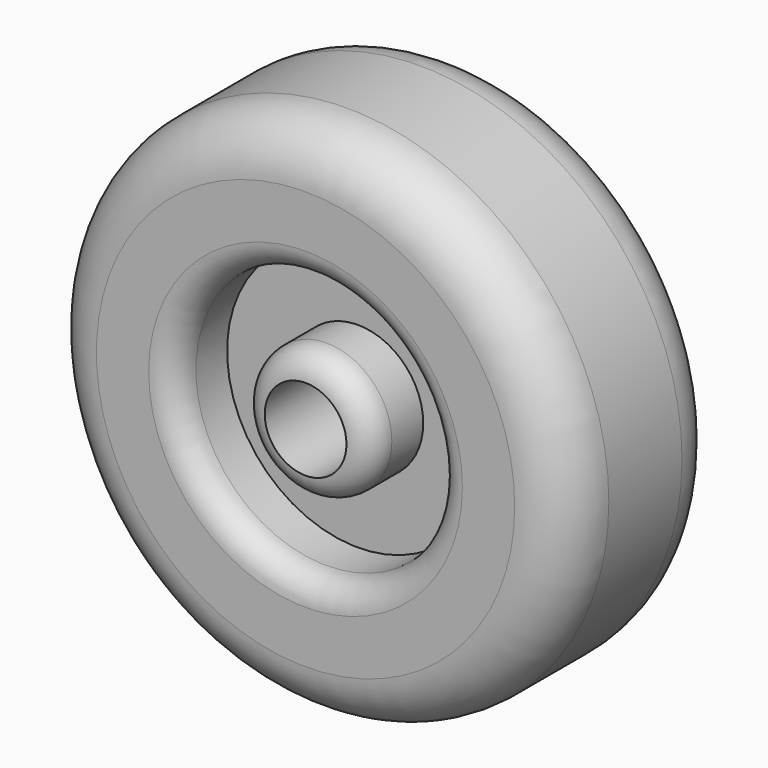
from build123d import *

# Parameters (mm, degrees)
F0_R     = 25.4
F1_DEPTH = 19.05
F2_R     = 5.08
F4_START = 12.7
F3_R     = 12.7
F3_R_2   = 6.35
F4_DEPTH = 12.7
F5_R     = 2.54
F6_R     = 3.96875
F7_DEPTH = 19.051


with BuildPart() as f1:
    # F0 (on Front) → F1 (new body)
    with BuildSketch(Plane.XZ):
        Circle(F0_R)
    extrude(amount=F1_DEPTH)

    # F2
    f2_edges = [f1.edges().sort_by_distance(p)[0] for p in [
        (-25.4, -19.05, 0),
        (-25.4, 0, 0),
    ]]
    fillet(f2_edges, radius=F2_R)

    # F3 (on Front) → F4 (cut)
    with BuildSketch(Plane.XZ.offset(F4_START)):
        Circle(F3_R)
        Circle(F3_R_2, mode=Mode.SUBTRACT)
    extrude(amount=F4_DEPTH, mode=Mode.SUBTRACT)

    # F5
    f5_edges = [f1.edges().sort_by_distance(p)[0] for p in [
        (-6.35, -19.05, 0),
        (-12.7, -19.05, 0),
    ]]
    fillet(f5_edges, radius=F5_R)

    # F6 (on Front) → F7 (cut, through all)
    with BuildSketch(Plane.XZ):
        Circle(F6_R)
    extrude(amount=F7_DEPTH, mode=Mode.SUBTRACT)


solid = f1.part
